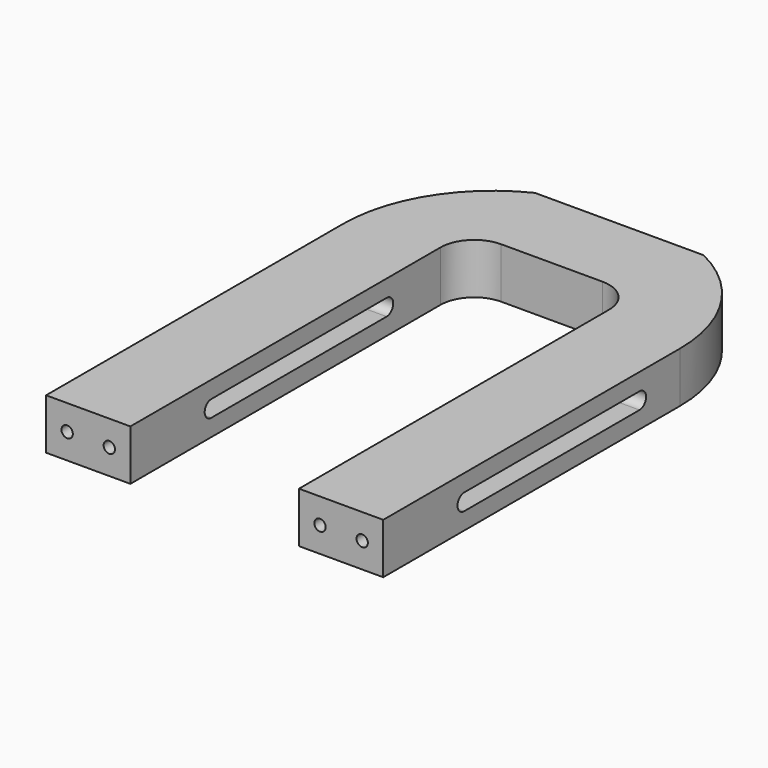
from build123d import *

# Parameters (mm, degrees)
F0_W     = 100
F0_H     = 50
F1_DEPTH = 30
F2_R     = 20
F3_R     = 3.37312
F4_DEPTH = 40
F6_DEPTH = 200.001


with BuildPart() as f1:
    # F0 (on Top) → F1 (new body)
    with BuildSketch(Plane.XY):
        with BuildLine():
            Line((-50, 100), (-50, 150))
            ThreePointArc((-50, 150), (-86.471849, 117.169906), (-100, 70))
            Line((-100, 70), (-100, -150))
            Line((-100, -150), (-50, -150))
            Line((-50, -150), (-50, 100))
        make_face()
        with Locations((0, 125)):
            Rectangle(F0_W, F0_H)
        with BuildLine():
            ThreePointArc((100, 70), (86.471849, 117.169906), (50, 150))
            Line((50, 150), (50, 100))
            Line((50, 100), (50, -150))
            Line((50, -150), (100, -150))
            Line((100, -150), (100, 70))
        make_face()
    extrude(amount=F1_DEPTH)

    # F2
    f2_edges = [f1.edges().sort_by_distance(p)[0] for p in [
        (-50, 100, 15),
        (50, 100, 15),
    ]]
    fillet(f2_edges, radius=F2_R)

    # F3 (on face) → F4 (cut)
    with BuildSketch(Plane.XZ.offset(150)):
        with Locations((-87.5, 15)):
            Circle(F3_R)
        with Locations((-62.5, 15)):
            Circle(F3_R)
        with Locations((62.5, 15)):
            Circle(F3_R)
        with Locations((87.5, 15)):
            Circle(F3_R)
    extrude(amount=-F4_DEPTH, mode=Mode.SUBTRACT)

    # F5 (on face) → F6 (cut, through all)
    with BuildSketch(Plane.YZ.offset(100)):
        with BuildLine():
            Line((-90, 10.0978), (40, 10.0978))
            ThreePointArc((40, 10.0978), (44.9022, 15), (40, 19.9022))
            Line((40, 19.9022), (-90, 19.9022))
            ThreePointArc((-90, 19.9022), (-94.9022, 15), (-90, 10.0978))
        make_face()
    extrude(amount=-F6_DEPTH, mode=Mode.SUBTRACT)


solid = f1.part
